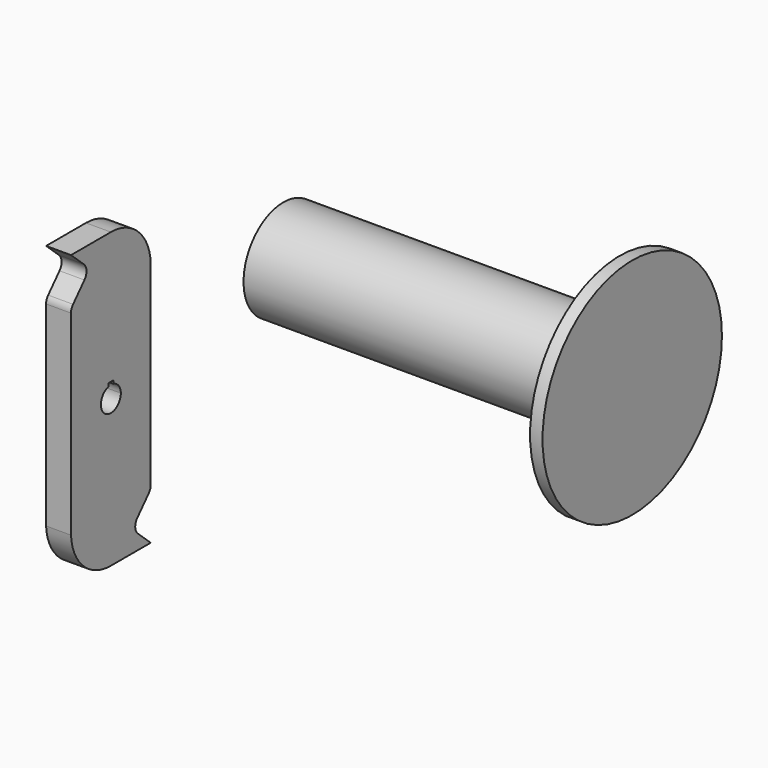
from build123d import *

# Parameters (mm, degrees)
F0_R      = 25.4
F1_DEPTH  = 177.8
F2_R      = 57.15
F2_R_2    = 25.4
F3_DEPTH  = 6.35
F4_R      = 101.6
F5_DEPTH  = 12.7
F7_DEPTH  = 12.7
F9_R      = 101.6
F10_DEPTH = 12.7
F11_R     = 5.08


with BuildPart() as f1:
    # F0 (on Right) → F1 (new body)
    with BuildSketch(Plane.YZ):
        Circle(F0_R)
    extrude(amount=F1_DEPTH)

    # F2 (on face) → F3 (join)
    with BuildSketch(Plane.YZ.offset(177.8)):
        Circle(F2_R)
        Circle(F2_R_2, mode=Mode.SUBTRACT)
    extrude(amount=-F3_DEPTH)


with BuildPart() as f5:
    # F4 (on Right) → F5 (new body)
    with BuildSketch(Plane.YZ):
        with Locations((-125.8302330971, -7.6023228467)):
            Circle(F4_R)
    extrude(amount=F5_DEPTH)

    # F6 (on face) → F7 (cut, through all)
    with BuildSketch(Plane.YZ.offset(12.7)):
        with BuildLine():
            ThreePointArc((-127.4177330971, -1.4539617845), (-129.7187980637, -12.6224386322), (-119.4802330971, -7.6023228467))
            ThreePointArc((-119.4802330971, -7.6023228467), (-120.8101173116, -3.71375788), (-124.2427330971, -1.4539617845))
            ThreePointArc((-124.2427330971, -1.4539617845), (-125.8302330971, -1.2523228467), (-127.4177330971, -1.4539617845))
        make_face()
        with BuildLine():
            ThreePointArc((-127.4177330971, -1.4539617845), (-125.8302330971, -1.2523228467), (-124.2427330971, -1.4539617845))
            Line((-124.2427330971, -1.4539617845), (-124.2427330971, 0.1335382155))
            Line((-124.2427330971, 0.1335382155), (-127.4177330971, 0.1335382155))
            Line((-127.4177330971, 0.1335382155), (-127.4177330971, -1.4539617845))
        make_face()
    extrude(amount=-F7_DEPTH, mode=Mode.SUBTRACT)

    # F9 (on face) → F10 (cut, through all)
    with BuildSketch(Plane.YZ.offset(12.7)):
        with Locations((-125.8302330971, -7.6023228467)):
            Circle(F9_R)
        with BuildLine():
            ThreePointArc((-125.8302330971, 67.2617186885), (-108.3356761221, 60.2904333334), (-100.4302330971, 43.1976771533))
            Line((-100.4302330971, 43.1976771533), (-100.4302330971, -7.6023228467))
            Line((-100.4302330971, -7.6023228467), (-100.4302330971, -58.4023228467))
            Line((-100.4302330971, -58.4023228467), (-112.406924367, -71.586901629))
            Line((-112.406924367, -71.586901629), (-100.4302330971, -82.4663643818))
            Line((-100.4302330971, -82.4663643818), (-125.8302330971, -82.4663643818))
            ThreePointArc((-125.8302330971, -82.4663643818), (-143.3247900721, -75.4950790267), (-151.2302330971, -58.4023228467))
            Line((-151.2302330971, -58.4023228467), (-151.2302330971, -7.6023227028))
            Line((-151.2302330971, -7.6023227028), (-151.2302330971, 43.1976771533))
            Line((-151.2302330971, 43.1976771533), (-139.2535418272, 56.3822559357))
            Line((-139.2535418272, 56.3822559357), (-151.2302330971, 67.2617186885))
            Line((-151.2302330971, 67.2617186885), (-125.8302330971, 67.2617186885))
        make_face(mode=Mode.SUBTRACT)
    extrude(amount=-F10_DEPTH, mode=Mode.SUBTRACT)

    # F11
    f11_edges = [f5.edges().sort_by_distance(p)[0] for p in [
        (6.35, -151.230233, 43.197677),
        (6.35, -100.430233, -58.402323),
        (6.35, -112.406924, -71.586902),
        (6.35, -139.253542, 56.382256),
    ]]
    fillet(f11_edges, radius=F11_R)


solid = Compound([f1.part, f5.part])
